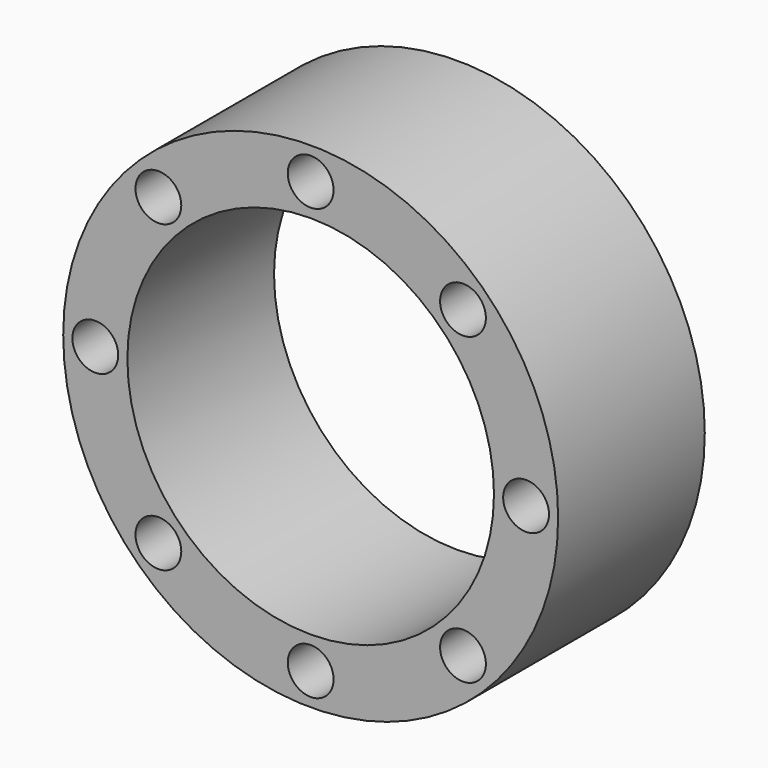
from build123d import *

# Parameters (mm, degrees)
F0_R     = 17.145
F0_R_2   = 1.5875
F0_R_3   = 12.7
F1_DEPTH = 12.7


with BuildPart() as f1:
    # F0 (on Front) → F1 (new body)
    with BuildSketch(Plane.XZ):
        with Locations((-36.515545, 25.488023)):
            Circle(F0_R)
        with Locations((-47.067346, 14.936222)):
            Circle(F0_R_2, mode=Mode.SUBTRACT)
        with Locations((-51.438045, 25.488023)):
            Circle(F0_R_2, mode=Mode.SUBTRACT)
        with Locations((-36.515545, 10.565523)):
            Circle(F0_R_2, mode=Mode.SUBTRACT)
        with Locations((-25.963744, 14.936222)):
            Circle(F0_R_2, mode=Mode.SUBTRACT)
        with Locations((-47.067346, 36.039824)):
            Circle(F0_R_2, mode=Mode.SUBTRACT)
        with Locations((-36.515545, 40.410523)):
            Circle(F0_R_2, mode=Mode.SUBTRACT)
        with Locations((-36.515545, 25.488023)):
            Circle(F0_R_3, mode=Mode.SUBTRACT)
        with Locations((-21.593045, 25.488023)):
            Circle(F0_R_2, mode=Mode.SUBTRACT)
        with Locations((-25.963744, 36.039824)):
            Circle(F0_R_2, mode=Mode.SUBTRACT)
    extrude(amount=F1_DEPTH)


solid = f1.part
